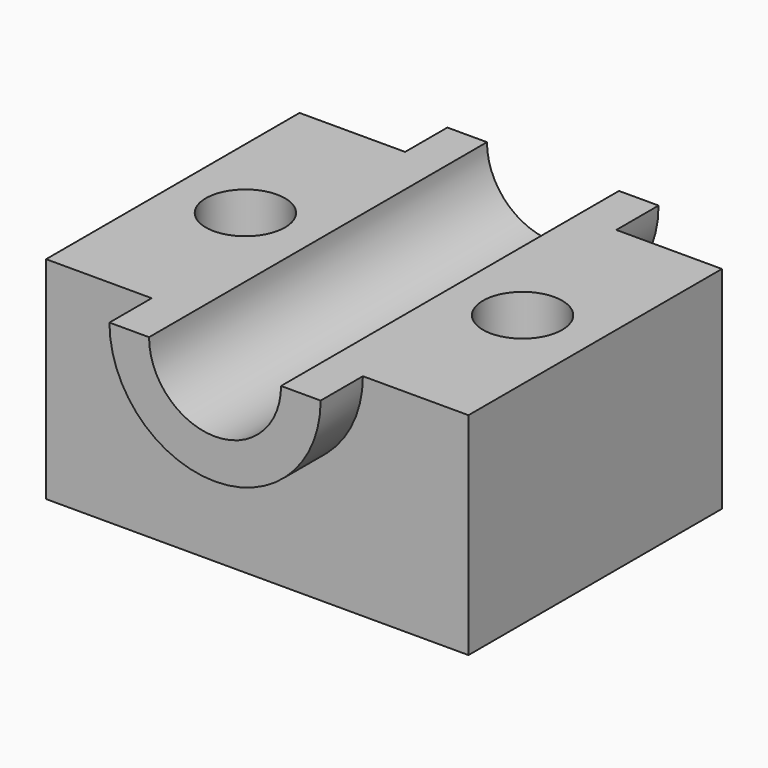
from build123d import *

# Parameters (mm, degrees)
F0_W          = 101.6
F0_H          = 76.2
F1_DEPTH      = 50.8
F3_DEPTH      = 12.7
F3_DEPTH_BACK = 88.9
F4_R          = 15.875
F5_DEPTH      = 122.936
F6_R          = 9.525
F7_DEPTH      = 135.636
F8_R          = 9.525
F9_DEPTH      = 98.298


with BuildPart() as f1:
    # F0 (on Top) → F1 (new body)
    with BuildSketch(Plane.XY):
        Rectangle(F0_W, F0_H)
    extrude(amount=F1_DEPTH)

    # F2 (on face) → F3 (join, two sides)
    with BuildSketch(Plane.XZ.offset(38.1)) as f3_sk:
        with BuildLine():
            Line((25.4, 50.8), (-25.4, 50.8))
            ThreePointArc((-25.4, 50.8), (0, 25.4), (25.4, 50.8))
        make_face()
    extrude(amount=F3_DEPTH)
    extrude(f3_sk.sketch, amount=-F3_DEPTH_BACK)

    # F4 (on face) → F5 (cut)
    with BuildSketch(Plane.XZ.offset(50.8)):
        with Locations((0, 50.8)):
            Circle(F4_R)
    extrude(amount=-F5_DEPTH, mode=Mode.SUBTRACT)

    # F6 (on face) → F7 (cut)
    with BuildSketch(Plane.XY.offset(50.8)):
        with Locations((-33.3375, 0)):
            Circle(F6_R)
    extrude(amount=-F7_DEPTH, mode=Mode.SUBTRACT)

    # F8 (on face) → F9 (cut)
    with BuildSketch(Plane.XY.offset(50.8)):
        with Locations((33.3375, 0)):
            Circle(F8_R)
    extrude(amount=-F9_DEPTH, mode=Mode.SUBTRACT)


solid = f1.part
